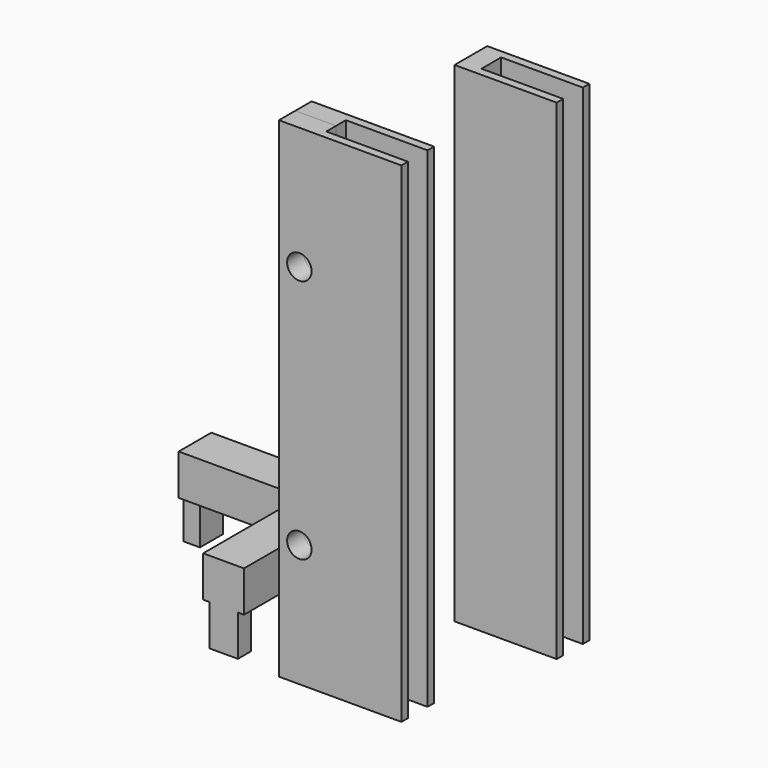
from build123d import *

# Parameters (mm, degrees)
F0_W       = 5
F0_H       = 1.5
F1_DEPTH   = 60
F2_DEPTH   = 60
F4_D       = 3
F4_DEPTH   = 100
F4_TIP     = 0.9012909285
F4_2_D     = 3
F4_2_DEPTH = 100
F4_2_TIP   = 0.9012909285
F6_DEPTH   = 60
F8_START   = -5
F8_DEPTH   = 5
F9_START   = -50
F9_DEPTH   = 5
F11_START  = -5
F11_DEPTH  = 5
F12_START  = -50
F12_DEPTH  = 5
F13_W      = 5
F13_H      = 5
F13_W_2    = 12
F13_H_2    = 12
F13_W_3    = 1.9991025329
F13_H_3    = 3.5
F13_W_4    = 3.5
F13_H_4    = 2
F14_DEPTH  = 5
F15_DEPTH  = 5


with BuildPart() as f1:
    # F0 (on Top) → F1 (new body)
    with BuildSketch(Plane.XY):
        Polygon((-10, 3), (0, 3), (0, 4), (-15, 4), (-15, 3), align=None)
        with Locations((-12.5, 2.25)):
            Rectangle(F0_W, F0_H)
    extrude(amount=F1_DEPTH)

    # F4
    with Locations(Plane.XZ.offset(1)):
        with Locations((-12.5, 45), (-12.5, 15)):
            Hole(F4_D / 2, depth=F4_DEPTH)
            with Locations((0, 0, -(F4_DEPTH + F4_TIP / 2))):  # 118° drill point
                Cone(0, F4_D / 2, F4_TIP, mode=Mode.SUBTRACT)

    # F7 (on face) → F8 (join)
    with BuildSketch(Plane.XY.offset(60).offset(F8_START)):
        Polygon((-15, 7), (-15, 4), (-14.25, 4), (-14.25, 6), (-10.75, 6), (-10.75, 4), (-10, 4), (-10, 7), align=None)
    extrude(amount=-F8_DEPTH)

    # F7 (on face) → F9 (join)
    with BuildSketch(Plane.XY.offset(60).offset(F9_START)):
        Polygon((-15, 7), (-15, 4), (-14.25, 4), (-14.25, 6), (-10.75, 6), (-10.75, 4), (-10, 4), (-10, 7), align=None)
    extrude(amount=-F9_DEPTH)


with BuildPart() as f2:
    # F0 (on Top) → F2 (new body)
    with BuildSketch(Plane.XY):
        with Locations((-12.5, 0.75)):
            Rectangle(F0_W, F0_H)
        Polygon((0, -1), (0, 0), (-10, 0), (-15, 0), (-15, -1), align=None)
    extrude(amount=F2_DEPTH)

    # F4#2
    with Locations(Plane.XZ.offset(1)):
        with Locations((-12.5, 45), (-12.5, 15)):
            Hole(F4_2_D / 2, depth=F4_2_DEPTH)
            with Locations((0, 0, -(F4_2_DEPTH + F4_2_TIP / 2))):  # 118° drill point
                Cone(0, F4_2_D / 2, F4_2_TIP, mode=Mode.SUBTRACT)


with BuildPart() as f6:
    # F5 (on Top) → F6 (new body)
    with BuildSketch(Plane.XY):
        Polygon((-6.5322569013, 22.4318350405), (3.4677430987, 22.4318350405), (3.4677430987, 23.4318350405), (-9.0322569013, 23.4318350405), (-9.0322569013, 20.9318350405), (-6.5322569013, 20.9318350405), align=None)
        Polygon((-6.5322569013, 19.4318350405), (-6.5322569013, 20.9318350405), (-9.0322569013, 20.9318350405), (-9.0322569013, 18.4318350405), (3.4677430987, 18.4318350405), (3.4677430987, 19.4318350405), align=None)
    extrude(amount=F6_DEPTH)

    # F10 (on face) → F11 (join)
    with BuildSketch(Plane.XY.offset(60).offset(F11_START)):
        Polygon((-9.0322569013, 26.4318350405), (-9.0322569013, 23.4318350405), (-8.2822569013, 23.4318350405), (-8.2822569013, 25.4318350405), (-4.7822569013, 25.4318350405), (-4.7822569013, 23.4318350405), (-4.0322569013, 23.4318350405), (-4.0322569013, 26.4318350405), align=None)
    extrude(amount=-F11_DEPTH)

    # F10 (on face) → F12 (join)
    with BuildSketch(Plane.XY.offset(60).offset(F12_START)):
        Polygon((-9.0322569013, 26.4318350405), (-9.0322569013, 23.4318350405), (-8.2822569013, 23.4318350405), (-8.2822569013, 25.4318350405), (-4.7822569013, 25.4318350405), (-4.7822569013, 23.4318350405), (-4.0322569013, 23.4318350405), (-4.0322569013, 26.4318350405), align=None)
    extrude(amount=-F12_DEPTH)


with BuildPart() as f14:
    # F13 (on Top) → F14 (new body)
    with BuildSketch(Plane.XY):
        with Locations((-28.121458441, 24.4260315597)):
            Rectangle(F13_W, F13_H)
        with Locations((-36.621458441, 24.4260315597)):
            Rectangle(F13_W_2, F13_H)
        with Locations((-28.121458441, 15.9260315597)):
            Rectangle(F13_W, F13_H_2)
        Polygon((-42.621458441, 21.9260315597), (-42.621458441, 26.9260315597), (-45.621458441, 26.9260315597), (-45.621458441, 26.1760315597), (-43.6223559082, 26.1760315597), (-43.6223559082, 22.6760315597), (-45.621458441, 22.6760315597), (-45.621458441, 21.9260315597), align=None)
        Polygon((-25.621458441, 9.9260315597), (-30.621458441, 9.9260315597), (-30.621458441, 6.9260315597), (-29.871458441, 6.9260315597), (-29.871458441, 8.9260315597), (-26.371458441, 8.9260315597), (-26.371458441, 6.9260315597), (-25.621458441, 6.9260315597), align=None)
        with Locations((-44.6219071746, 24.4260315597)):
            Rectangle(F13_W_3, F13_H_3)
        with Locations((-28.121458441, 7.9260315597)):
            Rectangle(F13_W_4, F13_H_4)
    extrude(amount=F14_DEPTH)

    # F13 (on Top) → F15 (join)
    with BuildSketch(Plane.XY):
        with Locations((-28.121458441, 7.9260315597)):
            Rectangle(F13_W_4, F13_H_4)
        with Locations((-44.6219071746, 24.4260315597)):
            Rectangle(F13_W_3, F13_H_3)
    extrude(amount=-F15_DEPTH)


solid = Compound([f1.part, f2.part, f6.part, f14.part])
